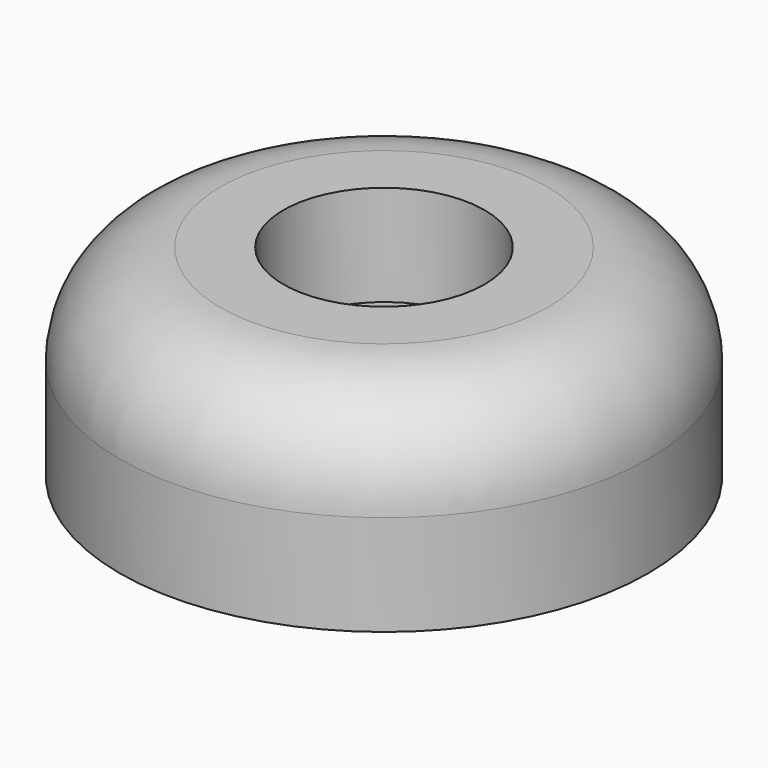
from build123d import *

# Parameters (mm, degrees)
CYLINDER001_R     = 2
CYLINDER001_DEPTH = 4
CYLINDER002_R     = 5.25
CYLINDER002_DEPTH = 4
FILLET_R          = 2


with BuildPart() as cylinder001:
    # Cylinder001 → Cylinder001 (new body)
    with BuildSketch(Plane(origin=(0, 12, 3), x_dir=(1, 0, 0), z_dir=(0, 0, 1))):
        Circle(CYLINDER001_R)
    extrude(amount=CYLINDER001_DEPTH)


with BuildPart() as cut:
    # Cylinder002 → Cylinder002 (new body)
    with BuildSketch(Plane(origin=(0, 12, 1), x_dir=(1, 0, 0), z_dir=(0, 0, 1))):
        Circle(CYLINDER002_R)
    extrude(amount=CYLINDER002_DEPTH)

    # Fillet
    fillet_edges = [cut.edges().sort_by_distance(p)[0] for p in [
        (-5.25, 12, 5),
    ]]
    fillet(fillet_edges, radius=FILLET_R)

    # Cut: cut Cylinder001
    add(cylinder001.part, mode=Mode.SUBTRACT)


solid = cut.part
